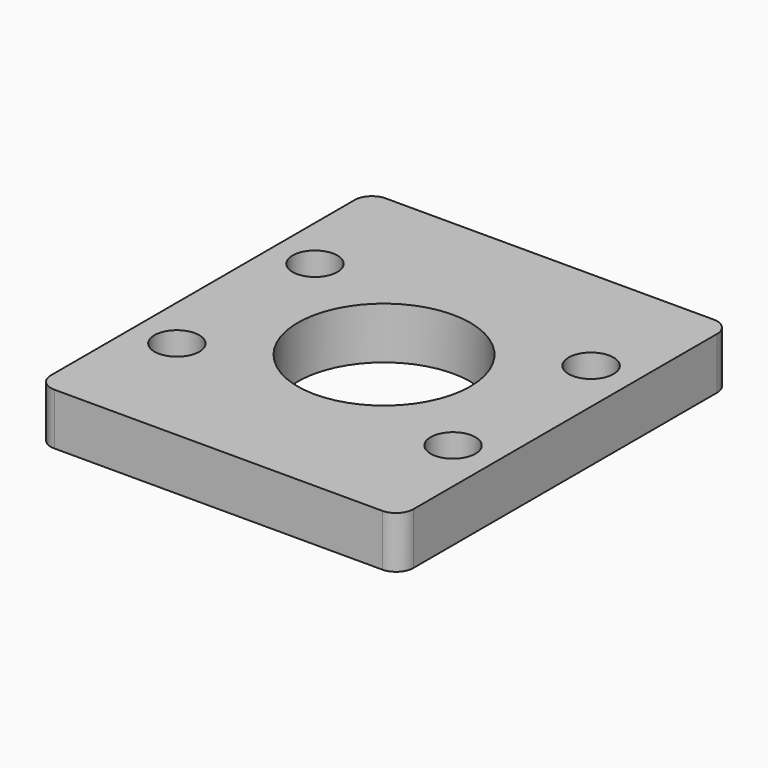
from build123d import *

# Parameters (mm, degrees)
SKETCH_W   = 21
SKETCH_H   = 24
SKETCH_R   = 1.3
SKETCH_R_2 = 5
PAD_DEPTH  = 3
FILLET_R   = 1


with BuildPart() as part:
    # Sketch → Pad (new body)
    with BuildSketch(Plane.XY):
        with Locations((10.5, 12)):
            Rectangle(SKETCH_W, SKETCH_H)
        with Locations((2.5, 17)):
            Circle(SKETCH_R, mode=Mode.SUBTRACT)
        with Locations((18.5, 17)):
            Circle(SKETCH_R, mode=Mode.SUBTRACT)
        with Locations((2.5, 7)):
            Circle(SKETCH_R, mode=Mode.SUBTRACT)
        with Locations((18.5, 7)):
            Circle(SKETCH_R, mode=Mode.SUBTRACT)
        with Locations((10.5, 12)):
            Circle(SKETCH_R_2, mode=Mode.SUBTRACT)
    extrude(amount=PAD_DEPTH)

    # Fillet
    fillet_edges = [part.edges().sort_by_distance(p)[0] for p in [
        (0, 0, 1.5),
        (21, 0, 1.5),
        (21, 24, 1.5),
        (0, 24, 1.5),
    ]]
    fillet(fillet_edges, radius=FILLET_R)


solid = part.part
